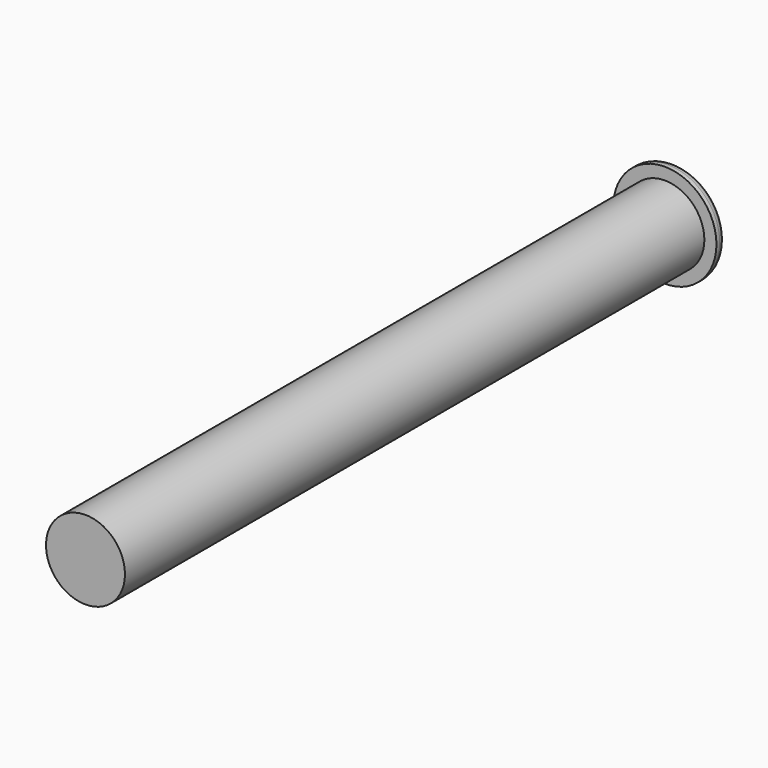
from build123d import *

# Parameters (mm, degrees)
SKETCH011_R       = 4.9
PAD002_DEPTH      = 44.95
CYLINDER003_R     = 6.4
CYLINDER003_DEPTH = 1.5
FILLET_R          = 1


with BuildPart() as part:
    # Sketch011 → Pad002 (new body, symmetric)
    with BuildSketch(Plane.XZ):
        with Locations((-0.1, 0)):
            Circle(SKETCH011_R)
    extrude(amount=PAD002_DEPTH, both=True)

    # Cylinder003 → Cylinder003 (join)
    with BuildSketch(Plane(origin=(-0.1, 44.95, 0), x_dir=(1, 0, 0), z_dir=(0, 1, 0))):
        Circle(CYLINDER003_R)
    extrude(amount=CYLINDER003_DEPTH)

    # Fillet
    fillet_edges = [part.edges().sort_by_distance(p)[0] for p in [
        (-6.5, 46.45, 0),
    ]]
    fillet(fillet_edges, radius=FILLET_R)


solid = part.part
